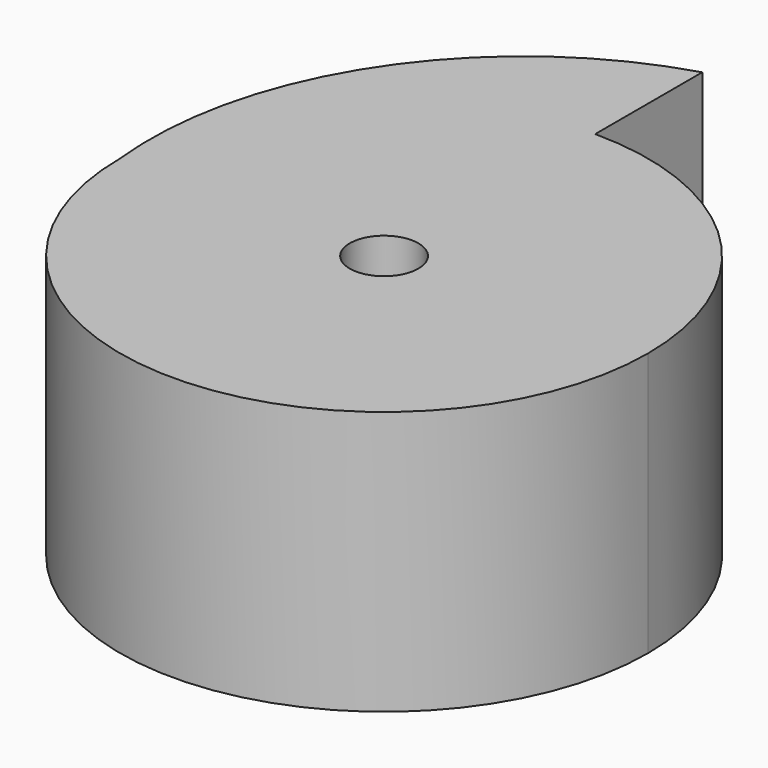
from build123d import *

# Parameters (mm, degrees)
F0_R     = 3.302
F1_DEPTH = 25.4


with BuildPart() as f1:
    # F0 (on Top) → F1 (new body)
    with BuildSketch(Plane.XY):
        with BuildLine():
            ThreePointArc((-25.4, 0), (0, -25.4), (25.4, 0))
            ThreePointArc((25.4, 0), (17.960512, 17.960512), (0, 25.4))
            ThreePointArc((0, 25.4), (-17.960512, 17.960512), (-25.4, 0))
        make_face()
        Circle(F0_R, mode=Mode.SUBTRACT)
        with BuildLine():
            ThreePointArc((-25.4, 0), (-17.960512, 17.960512), (0, 25.4))
            Line((0, 25.4), (0, 38.278166))
            ThreePointArc((0, 38.278166), (-19.618553, 23.729983), (-25.4, 0))
        make_face()
    extrude(amount=F1_DEPTH)


solid = f1.part
